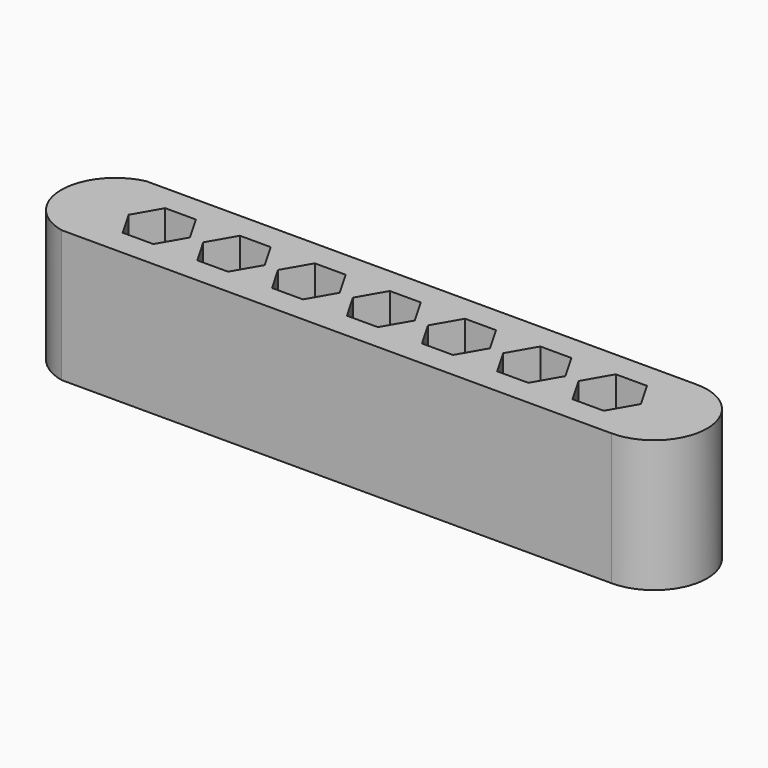
from build123d import *

# Parameters (mm, degrees)
F1_DEPTH = 20


with BuildPart() as f1:
    # F0 (on Top) → F1 (new body)
    with BuildSketch(Plane.XY):
        with BuildLine():
            Line((43.544571, 8.03), (-39.620463, 8.03))
            ThreePointArc((-39.620463, 8.03), (-46.105617, 0), (-39.620463, -8.03))
            Line((-39.620463, -8.03), (43.741562, -8.032416))
            ThreePointArc((43.741562, -8.032416), (51.773374, 0.098503), (43.544571, 8.03))
        make_face()
        Polygon((-26.58473, 0), (-28.911452, -4.03), (-33.564895, -4.03), (-35.891616, 0), (-33.564895, 4.03), (-28.911452, 4.03), align=None, mode=Mode.SUBTRACT)
        Polygon((-22.252235, 4.04), (-17.587245, 4.04), (-15.25475, 0), (-17.587245, -4.04), (-22.252235, -4.04), (-24.58473, 0), align=None, mode=Mode.SUBTRACT)
        Polygon((-13.25475, 0), (-10.916481, 4.05), (-6.239944, 4.05), (-3.901675, 0), (-6.239944, -4.05), (-10.916481, -4.05), align=None, mode=Mode.SUBTRACT)
        Polygon((-1.901675, 0), (0.442367, 4.06), (5.130451, 4.06), (7.474493, 0), (5.130451, -4.06), (0.442367, -4.06), align=None, mode=Mode.SUBTRACT)
        Polygon((9.474493, 0), (11.824309, 4.07), (16.52394, 4.07), (18.873755, 0), (16.52394, -4.07), (11.824309, -4.07), align=None, mode=Mode.SUBTRACT)
        Polygon((20.873755, 0), (23.229345, 4.08), (27.940523, 4.08), (30.296112, 0), (27.940523, -4.08), (23.229345, -4.08), align=None, mode=Mode.SUBTRACT)
        Polygon((32.296112, 0), (34.657474, 4.09), (39.3802, 4.09), (41.741562, 0), (39.3802, -4.09), (34.657474, -4.09), align=None, mode=Mode.SUBTRACT)
    extrude(amount=F1_DEPTH)


solid = f1.part
